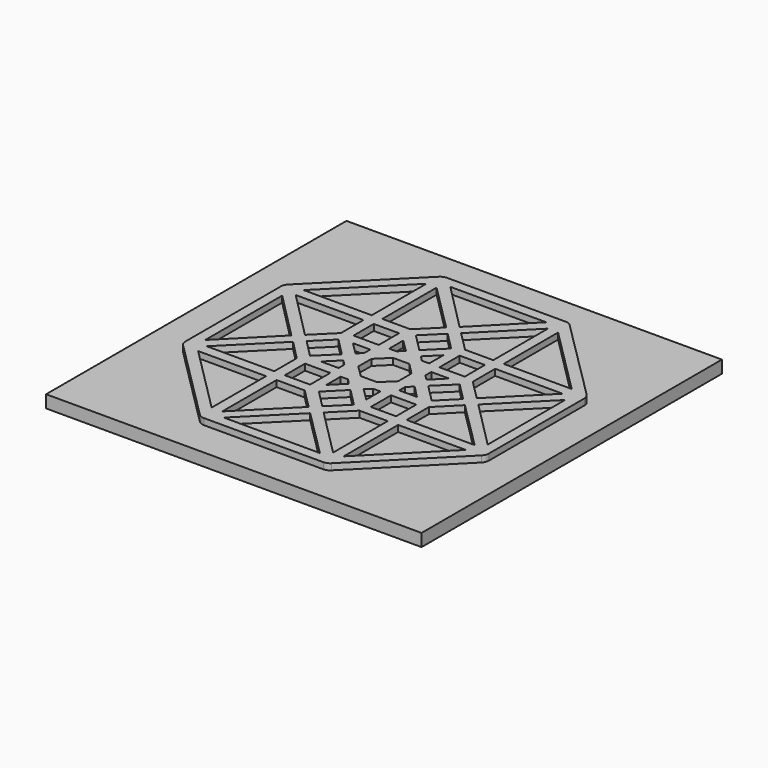
from build123d import *

# Parameters (mm, degrees)
F0_W     = 30
F0_H     = 30
F1_DEPTH = 1
F2_W     = 2.018653
F2_H     = 2.018654
F2_W_2   = 2.016375
F2_H_2   = 2.0191
F2_W_3   = 2.019964
F2_H_3   = 2.024288
F2_W_4   = 2.01923
F2_H_4   = 2.01923
F3_DEPTH = 0.5
F4_R     = 0.7


with BuildPart() as f1:
    # F0 (on Top) → F1 (new body)
    with BuildSketch(Plane.XY):
        with Locations((-26.442633, 11.425064)):
            Rectangle(F0_W, F0_H)
    extrude(amount=-F1_DEPTH)

    # F2 (on face) → F3 (join)
    with BuildSketch(Plane.XY):
        Polygon((-38.507011, 16.492767), (-38.507011, 6.388553), (-31.423131, -0.68813), (-21.315051, -0.68813), (-14.263901, 6.391955), (-14.263901, 16.494762), (-21.377073, 23.582622), (-31.424855, 23.582622), align=None)
        Polygon((-31.650189, 6.157815), (-31.650189, 0.719746), (-37.080094, 6.157815), align=None, mode=Mode.SUBTRACT)
        Polygon((-26.979655, 4.573753), (-30.809168, 0.727911), (-30.809168, 6.157815), (-28.563717, 6.157815), align=None, mode=Mode.SUBTRACT)
        Polygon((-33.854812, 11.440743), (-37.667993, 7.603067), (-37.667993, 15.286584), align=None, mode=Mode.SUBTRACT)
        Polygon((-31.666521, 6.998837), (-37.063763, 6.998837), (-33.23425, 10.836514), (-31.666521, 9.236122), align=None, mode=Mode.SUBTRACT)
        with Locations((-29.803097, 7.989094)):
            Rectangle(F2_W, F2_H, mode=Mode.SUBTRACT)
        Polygon((-26.981462, 8.58155), (-27.976304, 7.578057), (-27.976304, 9.014091), (-27.383724, 9.014091), align=None, mode=Mode.SUBTRACT)
        Polygon((-31.231981, 10.016147), (-32.637738, 11.439203), (-31.219007, 12.849177), (-29.809005, 11.421824), align=None, mode=Mode.SUBTRACT)
        Polygon((-28.805431, 9.843131), (-30.215511, 9.843131), (-29.212018, 10.829322), (-28.805431, 10.42706), align=None, mode=Mode.SUBTRACT)
        Polygon((-22.537747, 0.140012), (-30.213101, 0.140012), (-26.375424, 3.969523), align=None, mode=Mode.SUBTRACT)
        Polygon((-25.779359, 4.565588), (-24.195297, 6.157815), (-21.933518, 6.157815), (-21.933518, 0.703416), align=None, mode=Mode.SUBTRACT)
        Polygon((-15.695253, 6.157815), (-21.100661, 0.719746), (-21.100661, 6.157815), align=None, mode=Mode.SUBTRACT)
        Polygon((-27.769718, 6.581786), (-26.372593, 7.991966), (-24.962511, 6.56891), (-26.372533, 5.171744), align=None, mode=Mode.SUBTRACT)
        Polygon((-25.787652, 8.58155), (-25.368089, 9.001114), (-24.792811, 9.001114), (-24.792811, 7.586708), align=None, mode=Mode.SUBTRACT)
        with Locations((-22.940554, 7.998101)):
            Rectangle(F2_W_2, F2_H_2, mode=Mode.SUBTRACT)
        Polygon((-27.037146, 9.849087), (-27.982378, 10.779787), (-27.972091, 12.091455), (-27.011622, 13.036678), (-25.707053, 13.036678), (-24.78699, 12.102881), (-24.78699, 10.77085), (-25.736685, 9.849087), align=None, mode=Mode.SUBTRACT)
        Polygon((-23.960013, 9.843515), (-23.960013, 10.44087), (-23.527445, 10.845972), (-22.545587, 9.843515), align=None, mode=Mode.SUBTRACT)
        Polygon((-21.515666, 10.028902), (-22.936957, 11.45706), (-21.519115, 12.833655), (-20.115038, 11.422795), align=None, mode=Mode.SUBTRACT)
        Polygon((-21.108827, 7.015169), (-21.108827, 9.236122), (-19.516598, 10.84468), (-15.670758, 7.015169), align=None, mode=Mode.SUBTRACT)
        Polygon((-18.920535, 11.440744), (-15.074693, 15.294751), (-15.074693, 7.570407), align=None, mode=Mode.SUBTRACT)
        Polygon((-33.242416, 12.028642), (-37.055597, 15.874484), (-31.642023, 15.874484), (-31.642023, 13.620869), align=None, mode=Mode.SUBTRACT)
        Polygon((-29.207693, 12.036108), (-30.206861, 13.0223), (-28.818408, 13.0223), (-28.818408, 12.42972), align=None, mode=Mode.SUBTRACT)
        with Locations((-29.805265, 14.856238)):
            Rectangle(F2_W_3, F2_H_3, mode=Mode.SUBTRACT)
        Polygon((-27.381008, 13.859744), (-27.973332, 13.859744), (-27.977619, 15.258362), (-26.97318, 14.277282), align=None, mode=Mode.SUBTRACT)
        Polygon((-31.641971, 16.700408), (-37.086085, 16.700408), (-31.641971, 22.150441), align=None, mode=Mode.SUBTRACT)
        Polygon((-30.818034, 16.727873), (-30.818034, 22.145262), (-26.986726, 18.313954), (-28.579671, 16.727873), align=None, mode=Mode.SUBTRACT)
        Polygon((-23.534311, 12.02695), (-23.953147, 12.438918), (-23.953147, 13.036272), (-22.545587, 13.036272), align=None, mode=Mode.SUBTRACT)
        Polygon((-24.777411, 13.859262), (-25.37415, 13.859262), (-25.782874, 14.281611), (-24.777411, 15.281624), align=None, mode=Mode.SUBTRACT)
        Polygon((-26.382677, 14.877413), (-27.800711, 16.303259), (-26.380666, 17.707815), (-24.966487, 16.285844), align=None, mode=Mode.SUBTRACT)
        with Locations((-22.941211, 14.857687)):
            Rectangle(F2_W_4, F2_H_4, mode=Mode.SUBTRACT)
        Polygon((-19.523224, 12.038295), (-21.109303, 13.624375), (-21.109303, 15.862739), (-15.719378, 15.862739), align=None, mode=Mode.SUBTRACT)
        Polygon((-25.778282, 18.293355), (-21.933241, 22.152128), (-21.933241, 16.700408), (-24.185337, 16.700408), align=None, mode=Mode.SUBTRACT)
        Polygon((-26.375638, 18.890709), (-30.213814, 22.763215), (-22.551196, 22.763215), align=None, mode=Mode.SUBTRACT)
        Polygon((-21.109303, 16.714141), (-21.109303, 22.145262), (-15.678182, 16.714141), align=None, mode=Mode.SUBTRACT)
    extrude(amount=F3_DEPTH)

    # F4
    f4_edges = [f1.edges().sort_by_distance(p)[0] for p in [
        (-14.263901, 16.494762, 0.25),
        (-14.263901, 6.391955, 0.25),
        (-21.315051, -0.68813, 0.25),
        (-31.423131, -0.68813, 0.25),
        (-38.507011, 6.388553, 0.25),
        (-21.377073, 23.582622, 0.25),
        (-31.424855, 23.582622, 0.25),
        (-38.507011, 16.492767, 0.25),
    ]]
    fillet(f4_edges, radius=F4_R)


solid = f1.part
